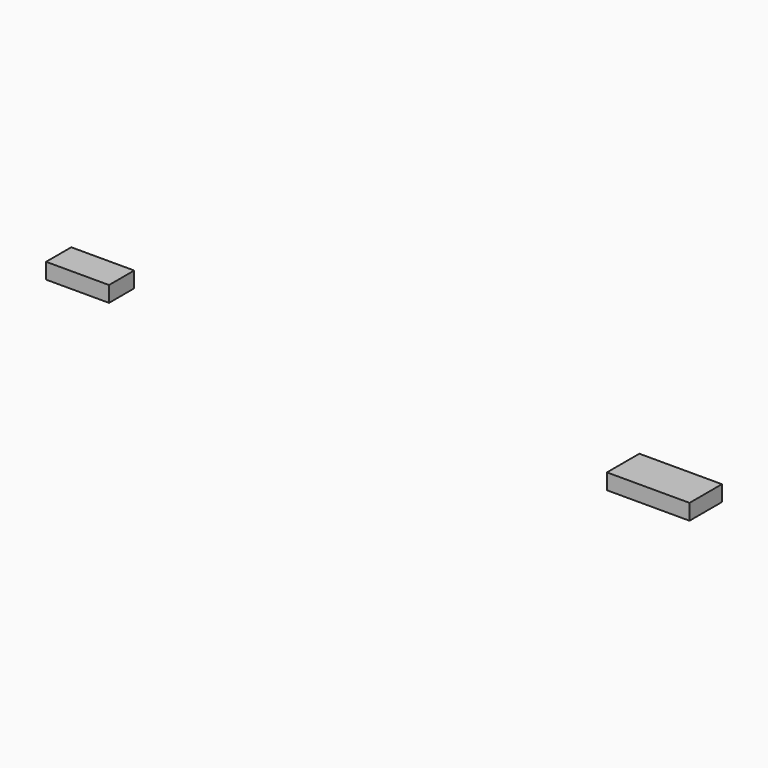
from build123d import *

# Parameters (mm, degrees)
F0_W     = 133.296125
F0_H     = 65.35516
F0_W_2   = 101.6
F0_H_2   = 50.8
F1_DEPTH = 25.4


with BuildPart() as f1:
    # F0 (on Top) → F1 (new body)
    with BuildSketch(Plane.XY):
        with Locations((926.993401, 0)):
            Rectangle(F0_W, F0_H)
        Rectangle(F0_W_2, F0_H_2)
    extrude(amount=F1_DEPTH)


solid = f1.part
